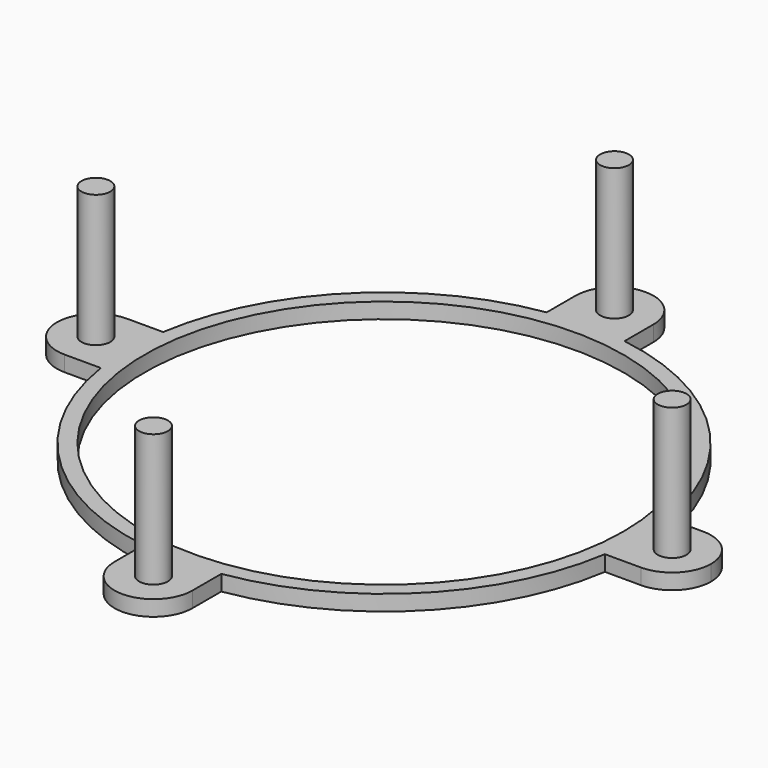
from build123d import *

# Parameters (mm, degrees)
F0_R     = 30.75
F0_R_2   = 1.85
F1_DEPTH = 2
F2_DEPTH = 19


with BuildPart() as f1:
    # F0 (on Top) → F1 (new body)
    with BuildSketch(Plane.XY):
        with BuildLine():
            ThreePointArc((32.65625, 2.476254417), (32.5356397493, 3.7409418742), (32.366070197, 5))
            ThreePointArc((32.366070197, 5), (23.1577470839, 23.1577470839), (5, 32.366070197))
            ThreePointArc((5, 32.366070197), (3.7409418742, 32.5356397493), (2.476254417, 32.65625))
            ThreePointArc((2.476254417, 32.65625), (0, 32), (-2.476254417, 32.65625))
            ThreePointArc((-2.476254417, 32.65625), (-3.7409418742, 32.5356397493), (-5, 32.366070197))
            ThreePointArc((-5, 32.366070197), (-23.1577470839, 23.1577470839), (-32.366070197, 5))
            ThreePointArc((-32.366070197, 5), (-32.5356397493, 3.7409418742), (-32.65625, 2.476254417))
            ThreePointArc((-32.65625, 2.476254417), (-32.1668462677, 1.2808688457), (-32, 0))
            ThreePointArc((-32, 0), (-32.1668462677, -1.2808688457), (-32.65625, -2.476254417))
            ThreePointArc((-32.65625, -2.476254417), (-32.5356397493, -3.7409418742), (-32.366070197, -5))
            ThreePointArc((-32.366070197, -5), (-23.1577470839, -23.1577470839), (-5, -32.366070197))
            ThreePointArc((-5, -32.366070197), (-3.7409418742, -32.5356397493), (-2.476254417, -32.65625))
            ThreePointArc((-2.476254417, -32.65625), (0, -32), (2.476254417, -32.65625))
            ThreePointArc((2.476254417, -32.65625), (3.7409418742, -32.5356397493), (5, -32.366070197))
            ThreePointArc((5, -32.366070197), (23.1577470839, -23.1577470839), (32.366070197, -5))
            ThreePointArc((32.366070197, -5), (32.5356397493, -3.7409418742), (32.65625, -2.476254417))
            ThreePointArc((32.65625, -2.476254417), (32, 0), (32.65625, 2.476254417))
        make_face()
        Circle(F0_R, mode=Mode.SUBTRACT)
        with BuildLine():
            Line((37, 5), (32.366070197, 5))
            ThreePointArc((32.366070197, 5), (32.5356397493, 3.7409418742), (32.65625, 2.476254417))
            ThreePointArc((32.65625, 2.476254417), (34.488155268, 4.3232668253), (37, 5))
        make_face()
        with BuildLine():
            ThreePointArc((2.476254417, 32.65625), (3.7409418742, 32.5356397493), (5, 32.366070197))
            Line((5, 32.366070197), (5, 37))
            ThreePointArc((5, 37), (4.3232668253, 34.488155268), (2.476254417, 32.65625))
        make_face()
        with BuildLine():
            ThreePointArc((37, 5), (34.488155268, 4.3232668253), (32.65625, 2.476254417))
            ThreePointArc((32.65625, 2.476254417), (32.7265541075, 1.2390142251), (32.75, 0))
            ThreePointArc((32.75, 0), (32.7265541075, -1.2390142251), (32.65625, -2.476254417))
            ThreePointArc((32.65625, -2.476254417), (34.488155268, -4.3232668253), (37, -5))
            ThreePointArc((37, -5), (40.5355339059, -3.5355339059), (42, 0))
            ThreePointArc((42, 0), (40.5355339059, 3.5355339059), (37, 5))
        make_face()
        with Locations((37, 0)):
            Circle(F0_R_2, mode=Mode.SUBTRACT)
        with BuildLine():
            ThreePointArc((-2.476254417, 32.65625), (0, 32.75), (2.476254417, 32.65625))
            ThreePointArc((2.476254417, 32.65625), (4.3232668253, 34.488155268), (5, 37))
            ThreePointArc((5, 37), (0, 42), (-5, 37))
            ThreePointArc((-5, 37), (-4.3232668253, 34.488155268), (-2.476254417, 32.65625))
        make_face()
        with Locations((0, 37)):
            Circle(F0_R_2, mode=Mode.SUBTRACT)
        with BuildLine():
            ThreePointArc((37, -5), (34.488155268, -4.3232668253), (32.65625, -2.476254417))
            ThreePointArc((32.65625, -2.476254417), (32.5356397493, -3.7409418742), (32.366070197, -5))
            Line((32.366070197, -5), (37, -5))
        make_face()
        with BuildLine():
            ThreePointArc((-5, 32.366070197), (-3.7409418742, 32.5356397493), (-2.476254417, 32.65625))
            ThreePointArc((-2.476254417, 32.65625), (-4.3232668253, 34.488155268), (-5, 37))
            Line((-5, 37), (-5, 32.366070197))
        make_face()
        with BuildLine():
            Line((5, -37), (5, -32.366070197))
            ThreePointArc((5, -32.366070197), (3.7409418742, -32.5356397493), (2.476254417, -32.65625))
            ThreePointArc((2.476254417, -32.65625), (4.3232668253, -34.488155268), (5, -37))
        make_face()
        with BuildLine():
            ThreePointArc((-32.65625, 2.476254417), (-32.5356397493, 3.7409418742), (-32.366070197, 5))
            Line((-32.366070197, 5), (-37, 5))
            ThreePointArc((-37, 5), (-34.488155268, 4.3232668253), (-32.65625, 2.476254417))
        make_face()
        with BuildLine():
            ThreePointArc((5, -37), (4.3232668253, -34.488155268), (2.476254417, -32.65625))
            ThreePointArc((2.476254417, -32.65625), (0, -32.75), (-2.476254417, -32.65625))
            ThreePointArc((-2.476254417, -32.65625), (-4.3232668253, -34.488155268), (-5, -37))
            ThreePointArc((-5, -37), (0, -42), (5, -37))
        make_face()
        with Locations((0, -37)):
            Circle(F0_R_2, mode=Mode.SUBTRACT)
        with BuildLine():
            ThreePointArc((-32.65625, -2.476254417), (-32.75, 0), (-32.65625, 2.476254417))
            ThreePointArc((-32.65625, 2.476254417), (-34.488155268, 4.3232668253), (-37, 5))
            ThreePointArc((-37, 5), (-42, 0), (-37, -5))
            ThreePointArc((-37, -5), (-34.488155268, -4.3232668253), (-32.65625, -2.476254417))
        make_face()
        with Locations((-37, 0)):
            Circle(F0_R_2, mode=Mode.SUBTRACT)
        with BuildLine():
            ThreePointArc((-5, -37), (-4.3232668253, -34.488155268), (-2.476254417, -32.65625))
            ThreePointArc((-2.476254417, -32.65625), (-3.7409418742, -32.5356397493), (-5, -32.366070197))
            Line((-5, -32.366070197), (-5, -37))
        make_face()
        with BuildLine():
            ThreePointArc((-32.366070197, -5), (-32.5356397493, -3.7409418742), (-32.65625, -2.476254417))
            ThreePointArc((-32.65625, -2.476254417), (-34.488155268, -4.3232668253), (-37, -5))
            Line((-37, -5), (-32.366070197, -5))
        make_face()
        with BuildLine():
            ThreePointArc((-2.476254417, 32.65625), (0, 32), (2.476254417, 32.65625))
            ThreePointArc((2.476254417, 32.65625), (0, 32.75), (-2.476254417, 32.65625))
        make_face()
        with BuildLine():
            ThreePointArc((-32, 0), (-32.1668462677, 1.2808688457), (-32.65625, 2.476254417))
            ThreePointArc((-32.65625, 2.476254417), (-32.75, 0), (-32.65625, -2.476254417))
            ThreePointArc((-32.65625, -2.476254417), (-32.1668462677, -1.2808688457), (-32, 0))
        make_face()
        with BuildLine():
            ThreePointArc((-2.476254417, -32.65625), (0, -32.75), (2.476254417, -32.65625))
            ThreePointArc((2.476254417, -32.65625), (0, -32), (-2.476254417, -32.65625))
        make_face()
        with BuildLine():
            ThreePointArc((32.75, 0), (32.7265541075, 1.2390142251), (32.65625, 2.476254417))
            ThreePointArc((32.65625, 2.476254417), (32, 0), (32.65625, -2.476254417))
            ThreePointArc((32.65625, -2.476254417), (32.7265541075, -1.2390142251), (32.75, 0))
        make_face()
    extrude(amount=F1_DEPTH)

    # F0 (on Top) → F2 (join)
    with BuildSketch(Plane.XY):
        with Locations((0, 37)):
            Circle(F0_R_2)
        with Locations((-37, 0)):
            Circle(F0_R_2)
        with Locations((0, -37)):
            Circle(F0_R_2)
        with Locations((37, 0)):
            Circle(F0_R_2)
    extrude(amount=F2_DEPTH)


solid = f1.part
